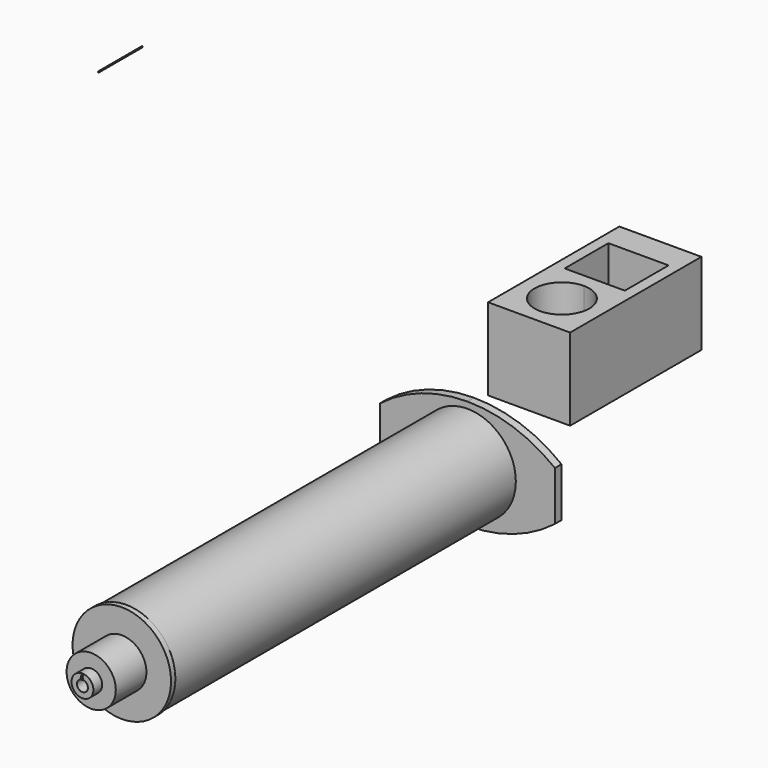
from build123d import *

# Parameters (mm, degrees)
F0_W      = 16
F0_H      = 9
F1_DEPTH  = 1.5
F2_R      = 8.5
F3_DEPTH  = 1.501
F4_R      = 8.846955
F4_R_2    = 8.531815
F5_DEPTH  = 78
F6_R      = 9
F7_DEPTH  = 1
F8_R      = 4.5
F9_DEPTH  = 7
F10_R     = 2
F10_R_2   = 1
F11_DEPTH = 2
F12_R     = 1
F13_DEPTH = 87.501
F14_R     = 0.15
F15_DEPTH = 0.1
F16_R     = 0.1
F17_DEPTH = 10
F18_W     = 15
F18_H     = 15
F19_DEPTH = 5
F21_DEPTH = 5.001
F22_W     = 2
F22_H     = 15
F23_DEPTH = 10
F24_W     = 15
F24_H     = 15
F25_DEPTH = 15
F27_DEPTH = 15.665169


with BuildPart() as f1:
    # F0 (on Front) → F1 (new body)
    with BuildSketch(Plane.XZ):
        with BuildLine():
            ThreePointArc((0, -10), (8.459462, -8.586617), (16, -4.5))
            Line((16, -4.5), (0, -4.5))
            Line((0, -4.5), (0, -10))
        make_face()
        with Locations((8, 0)):
            Rectangle(F0_W, F0_H)
        with BuildLine():
            Line((0, -10), (0, -4.5))
            Line((0, -4.5), (-16, -4.5))
            ThreePointArc((-16, -4.5), (-8.459462, -8.586617), (0, -10))
        make_face()
        with Locations((-8, 0)):
            Rectangle(F0_W, F0_H)
        with BuildLine():
            Line((0, 4.5), (16, 4.5))
            ThreePointArc((16, 4.5), (8.459462, 8.586617), (0, 10))
            Line((0, 10), (0, 4.5))
        make_face()
        with BuildLine():
            Line((-16, 4.5), (0, 4.5))
            Line((0, 4.5), (0, 10))
            ThreePointArc((0, 10), (-8.459462, 8.586617), (-16, 4.5))
        make_face()
    extrude(amount=F1_DEPTH)

    # F2 (on face) → F3 (cut, through all)
    with BuildSketch(Plane.XZ.offset(1.5)):
        Circle(F2_R)
    extrude(amount=-F3_DEPTH, mode=Mode.SUBTRACT)

    # F4 (on face) → F5 (join)
    with BuildSketch(Plane.XZ.offset(1.5)):
        Circle(F4_R)
        Circle(F4_R_2, mode=Mode.SUBTRACT)
    extrude(amount=F5_DEPTH)

    # F6 (on face) → F7 (join)
    with BuildSketch(Plane.XZ.offset(79.5)):
        Circle(F6_R)
    extrude(amount=F7_DEPTH)

    # F8 (on face) → F9 (join)
    with BuildSketch(Plane.XZ.offset(80.5)):
        Circle(F8_R)
    extrude(amount=F9_DEPTH)

    # F10 (on face) → F11 (join)
    with BuildSketch(Plane.XZ.offset(87.5)):
        Circle(F10_R)
        Circle(F10_R_2, mode=Mode.SUBTRACT)
    extrude(amount=F11_DEPTH)

    # F12 (on face) → F13 (cut, through all)
    with BuildSketch(Plane.XZ.offset(87.5)):
        Circle(F12_R)
    extrude(amount=-F13_DEPTH, mode=Mode.SUBTRACT)

    # F14 (on Right) → F15 (join)
    with BuildSketch(Plane.YZ):
        with BuildLine():
            Line((-89.437596, 0.959231), (-89.454034, 1.952762))
            ThreePointArc((-89.454034, 1.952762), (-89.889573, 1.448655), (-89.437596, 0.959231))
        make_face()
        with Locations((-89.679241, 1.456926)):
            Circle(F14_R, mode=Mode.SUBTRACT)
    extrude(amount=F15_DEPTH)


with BuildPart() as f17:
    # F16 (on Front) → F17 (new body)
    with BuildSketch(Plane.XZ):
        with Locations((-60.668886, 46.771824)):
            Circle(F16_R)
    extrude(amount=F17_DEPTH)


with BuildPart() as f19:
    # F18 (on Front) → F19 (new body)
    with BuildSketch(Plane.XZ):
        with Locations((34.076576, 38.707655)):
            Rectangle(F18_W, F18_H)
    extrude(amount=F19_DEPTH)

    # F20 (on face) → F21 (cut, through all)
    with BuildSketch(Plane.XZ.offset(5)):
        with BuildLine():
            ThreePointArc((35.676576, 38.707655), (35.207947, 39.839026), (34.076576, 40.307655))
            Line((34.076576, 40.307655), (34.076576, 38.707655))
            Line((34.076576, 38.707655), (35.676576, 38.707655))
        make_face()
        with BuildLine():
            Line((34.076576, 38.707655), (34.076576, 40.307655))
            ThreePointArc((34.076576, 40.307655), (32.945205, 39.839026), (32.476576, 38.707655))
            Line((32.476576, 38.707655), (34.076576, 38.707655))
        make_face()
        with BuildLine():
            Line((35.676576, 38.707655), (34.076576, 38.707655))
            Line((34.076576, 38.707655), (34.076576, 37.107655))
            ThreePointArc((34.076576, 37.107655), (35.207947, 37.576284), (35.676576, 38.707655))
        make_face()
        with BuildLine():
            Line((34.076576, 37.107655), (34.076576, 38.707655))
            Line((34.076576, 38.707655), (32.476576, 38.707655))
            ThreePointArc((32.476576, 38.707655), (32.945205, 37.576284), (34.076576, 37.107655))
        make_face()
    extrude(amount=-F21_DEPTH, mode=Mode.SUBTRACT)

    # F22 (on face) → F23 (join)
    with BuildSketch(Plane.XZ.offset(5)):
        with Locations((27.576576, 38.707655)):
            Rectangle(F22_W, F22_H)
        with Locations((40.576576, 38.707655)):
            Rectangle(F22_W, F22_H)
    extrude(amount=F23_DEPTH)

    # F24 (on face) → F25 (join)
    with BuildSketch(Plane.XZ.offset(15)):
        with Locations((34.076576, 38.707655)):
            Rectangle(F24_W, F24_H)
    extrude(amount=F25_DEPTH)

    # F26 (on face) → F27 (cut, through all)
    with BuildSketch(Plane(origin=(0, 0, 31.207655), x_dir=(1, 0, 0), z_dir=(0, 0, -1))):
        with BuildLine():
            ThreePointArc((34.076576, 27.5), (29.076576, 22.5), (34.076576, 17.5))
            Line((34.076576, 17.5), (34.076576, 27.5))
        make_face()
        with BuildLine():
            Line((34.076576, 27.5), (34.076576, 17.5))
            ThreePointArc((34.076576, 17.5), (37.61211, 18.964466), (39.076576, 22.5))
            ThreePointArc((39.076576, 22.5), (37.61211, 26.035534), (34.076576, 27.5))
        make_face()
    extrude(amount=-F27_DEPTH, mode=Mode.SUBTRACT)


solid = Compound([f1.part, f17.part, f19.part])
